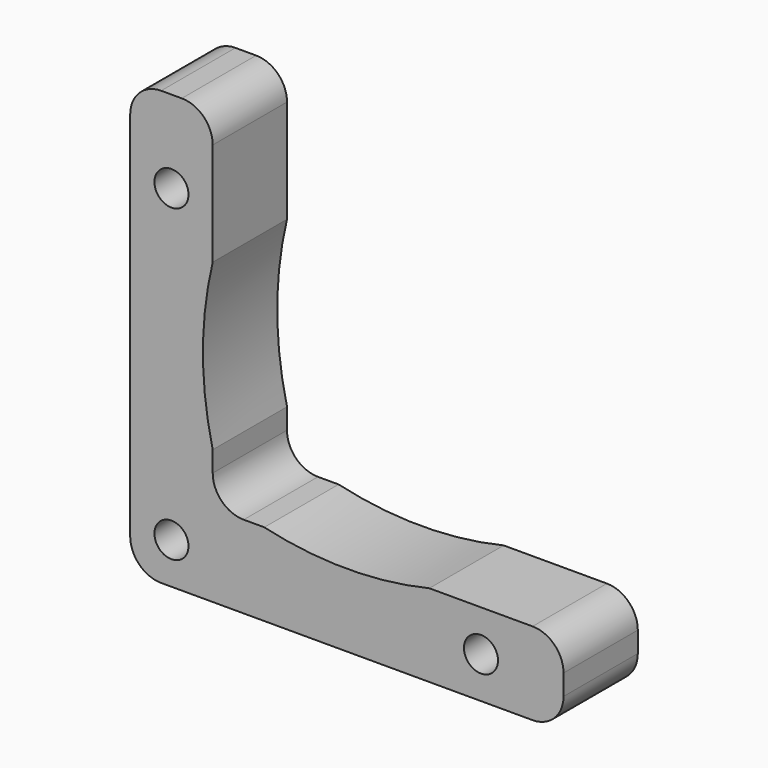
from build123d import *

# Parameters (mm, degrees)
F1_DEPTH = 9
F2_R     = 3
F3_D     = 3.3


with BuildPart() as f1:
    # F0 (on Front) → F1 (new body)
    with BuildSketch(Plane.XZ):
        with BuildLine():
            Line((0, -8), (0, 0))
            Line((0, 0), (-13, 0))
            ThreePointArc((-13, 0), (-21, -0.9371725321), (-29, 0))
            Line((-29, 0), (-34, 0))
            Line((-34, 0), (-34, 5))
            ThreePointArc((-34, 5), (-34.9498381987, 13), (-34, 21))
            Line((-34, 21), (-34, 34))
            Line((-34, 34), (-42, 34))
            Line((-42, 34), (-42, 0))
            Line((-42, 0), (-42, -8))
            Line((-42, -8), (0, -8))
        make_face()
    extrude(amount=F1_DEPTH)

    # F2
    f2_edges = [f1.edges().sort_by_distance(p)[0] for p in [
        (-34, -4.5, 34),
        (-42, -4.5, 34),
        (0, -4.5, 0),
        (0, -4.5, -8),
        (-34, -4.5, 0),
        (-42, -4.5, -8),
    ]]
    fillet(f2_edges, radius=F2_R)

    # F3 (through all)
    with Locations(Plane(origin=(0, 0, 0), x_dir=(1, 0, 0), z_dir=(0, 1, 0))):
        with Locations((-38, -26), (-38, 4), (-8, 4)):
            Hole(F3_D / 2)


solid = f1.part
